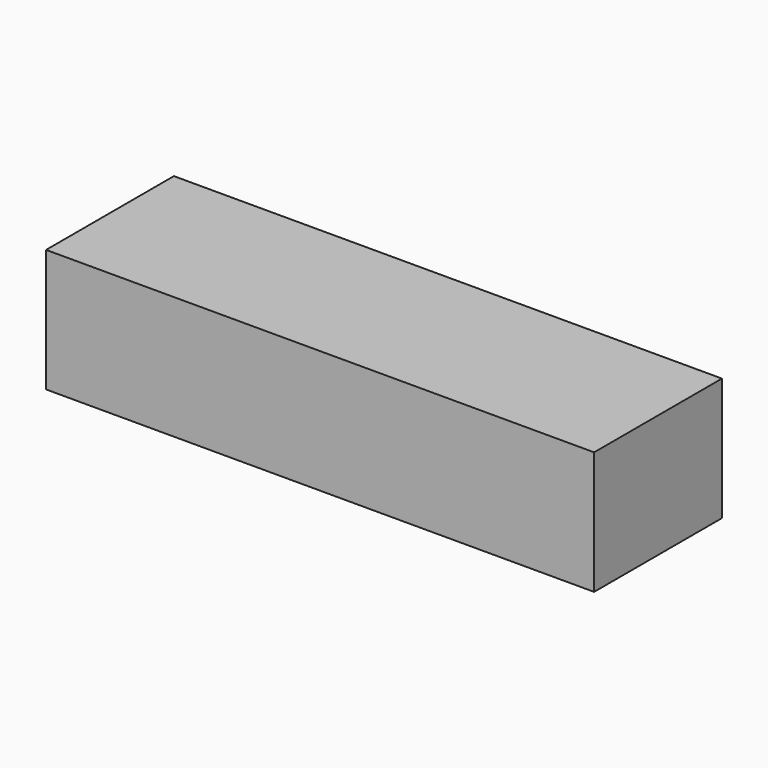
from build123d import *

# Parameters (mm, degrees)
F0_W     = 65
F0_H     = 50
F1_DEPTH = 223
F2_R     = 9.5
F3_DEPTH = 50


with BuildPart() as f1:
    # F0 (on Right) → F1 (new body)
    with BuildSketch(Plane.YZ):
        with Locations((0, -3.5)):
            Rectangle(F0_W, F0_H)
    extrude(amount=F1_DEPTH)

    # F2 (on face) → F3 (cut)
    with BuildSketch(Plane(origin=(0, 0, 0), x_dir=(0, -1, 0), z_dir=(-1, 0, 0))):
        Circle(F2_R)
    extrude(amount=-F3_DEPTH, mode=Mode.SUBTRACT)


solid = f1.part
